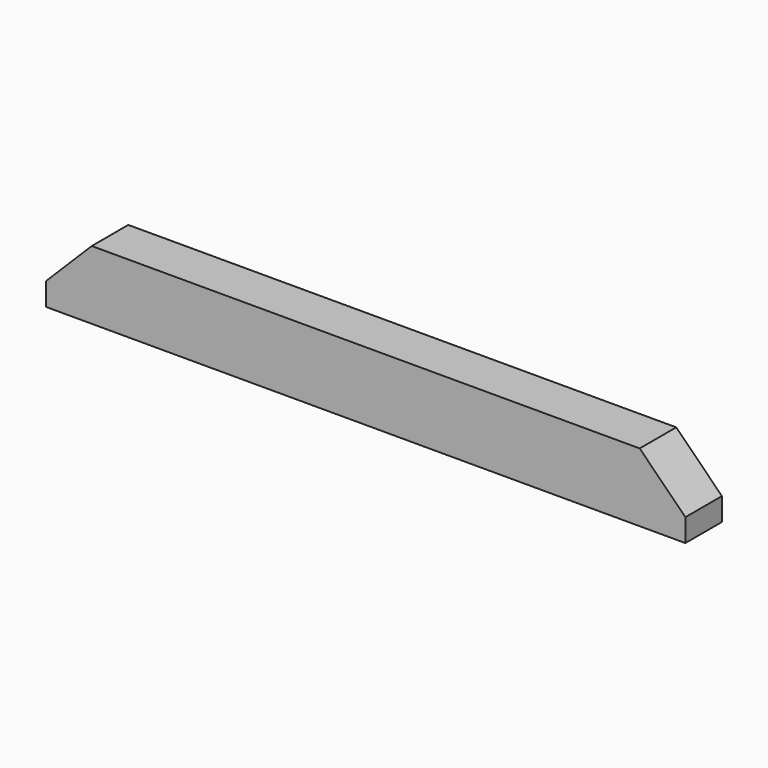
from build123d import *

# Parameters (mm, degrees)
F0_W     = 120
F0_H     = 15
F1_DEPTH = 10


with BuildPart() as f1:
    # F0 (on Front) → F1 (new body)
    with BuildSketch(Plane.XZ):
        with Locations((5.696284, -4.781189)):
            Rectangle(F0_W, F0_H)
        Polygon((-54.303716, -12.281189), (-54.303716, 2.718811), (-64.303716, -7.281189), (-64.303716, -12.281189), align=None)
        Polygon((75.696284, -7.281189), (65.696284, 2.718811), (65.696284, -12.281189), (75.696284, -12.281189), align=None)
    extrude(amount=F1_DEPTH)


solid = f1.part
